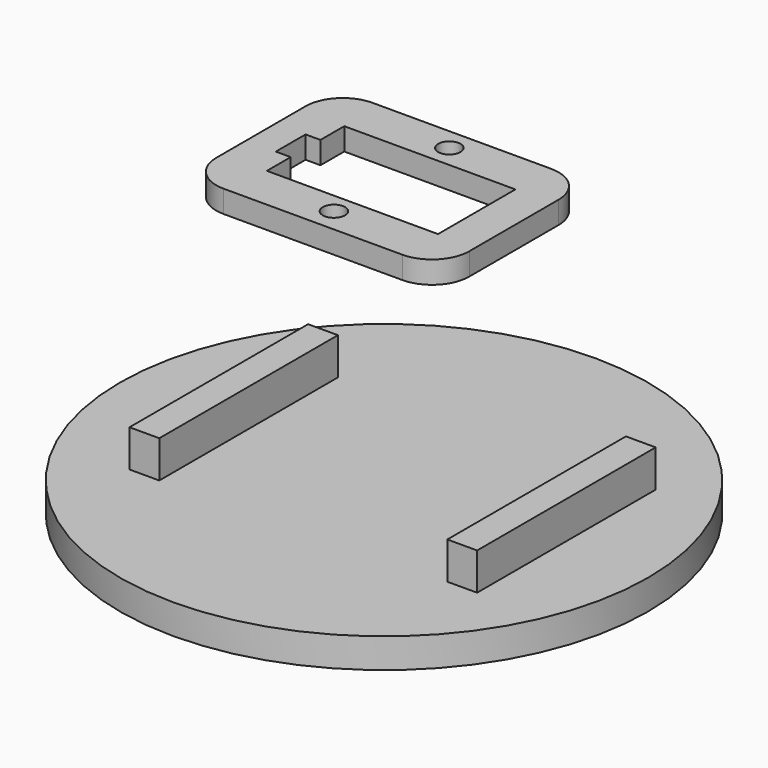
from build123d import *

# Parameters (mm, degrees)
F0_W     = 34
F0_H     = 25
F1_DEPTH = 3
F2_R     = 5
F3_W     = 2
F3_H     = 5
F3_R     = 1.5
F4_DEPTH = 25
F5_R     = 35.5
F6_DEPTH = 4
F7_W     = 4
F7_H     = 30
F8_DEPTH = 5


with BuildPart() as f1:
    # F0 (on Top) → F1 (new body)
    with BuildSketch(Plane.XY):
        with Locations((-17, 34.525927)):
            Rectangle(F0_W, F0_H)
    extrude(amount=F1_DEPTH)

    # F2
    f2_edges = [f1.edges().sort_by_distance(p)[0] for p in [
        (0, 47.025927, 1.5),
        (0, 22.025927, 1.5),
        (-34, 22.025927, 1.5),
        (-34, 47.025927, 1.5),
    ]]
    fillet(f2_edges, radius=F2_R)

    # F3 (on face) → F4 (cut)
    with BuildSketch(Plane.XY.offset(3)):
        Polygon((-16.5, 28.025927), (-5, 28.025927), (-5, 41.025927), (-16.5, 41.025927), (-28, 41.025927), (-28, 37.025927), (-28, 32.025927), (-28, 28.025927), align=None)
        with Locations((-29, 34.525927)):
            Rectangle(F3_W, F3_H)
        with Locations((-16.302576, 44.050492)):
            Circle(F3_R)
        with Locations((-16.775301, 25.258444)):
            Circle(F3_R)
    extrude(amount=-F4_DEPTH, mode=Mode.SUBTRACT)


with BuildPart() as f6:
    # F5 (on Top) → F6 (new body)
    with BuildSketch(Plane.XY):
        with Locations((26.708765, -20.683685)):
            Circle(F5_R)
    extrude(amount=F6_DEPTH)

    # F7 (on face) → F8 (join)
    with BuildSketch(Plane.XY.offset(4)):
        with Locations((48.321746, -19.56074)):
            Rectangle(F7_W, F7_H)
        with Locations((6.346511, -20.480365)):
            Rectangle(F7_W, F7_H)
    extrude(amount=F8_DEPTH)


solid = Compound([f1.part, f6.part])
